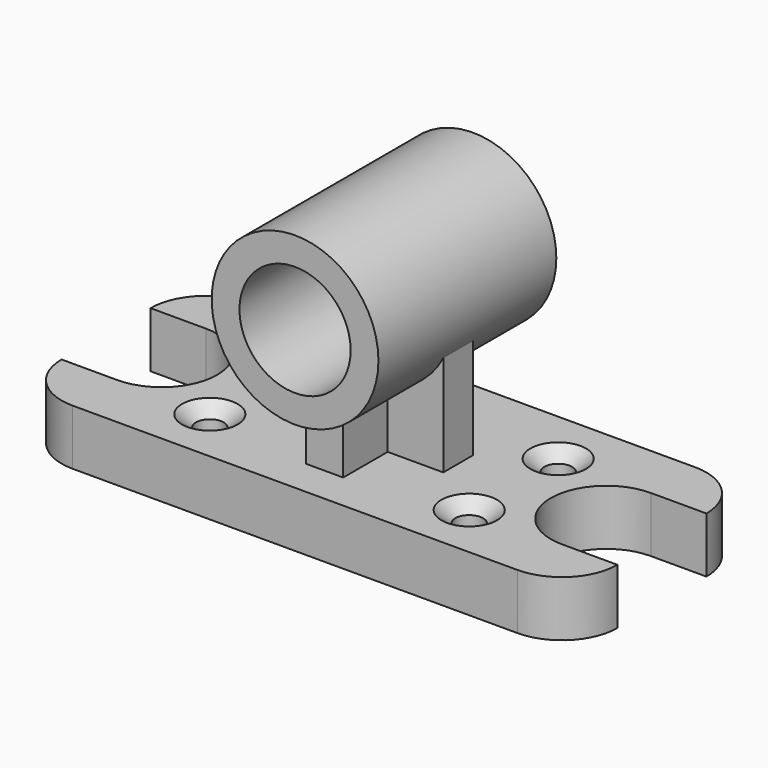
from build123d import *

# Parameters (mm, degrees)
F0_R           = 38.1
F1_DEPTH       = 76.2
F2_DEPTH       = 266.7
F4_D           = 38.1
F4_CSINK_D     = 76.2
F4_CSINK_ANGLE = 100
F5_R           = 114.3
F5_R_2         = 76.2
F6_DEPTH       = 152.4
F7_DEPTH       = 152.4


with BuildPart() as f1:
    # F0 (on Top) → F1 (new body)
    with BuildSketch(Plane.XY):
        with BuildLine():
            ThreePointArc((-304.8, 76.2), (-228.6, 0), (-304.8, -76.2))
            Line((-304.8, -76.2), (-381, -76.2))
            ThreePointArc((-381, -76.2), (-358.681537, -130.081537), (-304.8, -152.4))
            Line((-304.8, -152.4), (304.8, -152.4))
            ThreePointArc((304.8, -152.4), (358.681537, -130.081537), (381, -76.2))
            Line((381, -76.2), (304.8, -76.2))
            ThreePointArc((304.8, -76.2), (228.6, 0), (304.8, 76.2))
            Line((304.8, 76.2), (381, 76.2))
            ThreePointArc((381, 76.2), (358.681537, 130.081537), (304.8, 152.4))
            Line((304.8, 152.4), (-304.8, 152.4))
            ThreePointArc((-304.8, 152.4), (-358.681537, 130.081537), (-381, 76.2))
            Line((-381, 76.2), (-304.8, 76.2))
        make_face()
        with Locations((-177.8, -76.2)):
            Circle(F0_R, mode=Mode.SUBTRACT)
        with Locations((177.8, -76.2)):
            Circle(F0_R, mode=Mode.SUBTRACT)
        with Locations((-177.8, 76.2)):
            Circle(F0_R, mode=Mode.SUBTRACT)
        Polygon((101.6, 25.4), (101.6, -25.4), (25.4, -25.4), (25.4, -101.6), (-25.4, -101.6), (-25.4, -25.4), (-101.6, -25.4), (-101.6, 25.4), (-25.4, 25.4), (-25.4, 101.6), (25.4, 101.6), (25.4, 25.4), align=None, mode=Mode.SUBTRACT)
        with Locations((177.8, 76.2)):
            Circle(F0_R, mode=Mode.SUBTRACT)
        with Locations((-177.8, 76.2)):
            Circle(F0_R)
        with Locations((-177.8, -76.2)):
            Circle(F0_R)
        with Locations((177.8, -76.2)):
            Circle(F0_R)
        with Locations((177.8, 76.2)):
            Circle(F0_R)
    extrude(amount=F1_DEPTH)

    # F0 (on Top) → F2 (join)
    with BuildSketch(Plane.XY):
        Polygon((25.4, -25.4), (101.6, -25.4), (101.6, 25.4), (25.4, 25.4), (25.4, 101.6), (-25.4, 101.6), (-25.4, 25.4), (-101.6, 25.4), (-101.6, -25.4), (-25.4, -25.4), (-25.4, -101.6), (25.4, -101.6), align=None)
    extrude(amount=F2_DEPTH)

    # F4 (through all)
    with Locations(Plane.XY.offset(76.2)):
        with Locations((-177.8, -76.2), (-177.8, 76.2), (177.8, 76.2), (177.8, -76.2)):
            CounterSinkHole(F4_D / 2, F4_CSINK_D / 2, counter_sink_angle=F4_CSINK_ANGLE)

    # F5 (on Front) → F6 (join, symmetric)
    with BuildSketch(Plane.XZ):
        with Locations((0, 266.7)):
            Circle(F5_R)
        with Locations((0, 266.7)):
            Circle(F5_R_2, mode=Mode.SUBTRACT)
    extrude(amount=F6_DEPTH, both=True)

    # F5 (on Front) → F7 (cut, symmetric)
    with BuildSketch(Plane.XZ):
        with Locations((0, 266.7)):
            Circle(F5_R_2)
    extrude(amount=F7_DEPTH, both=True, mode=Mode.SUBTRACT)


solid = f1.part
